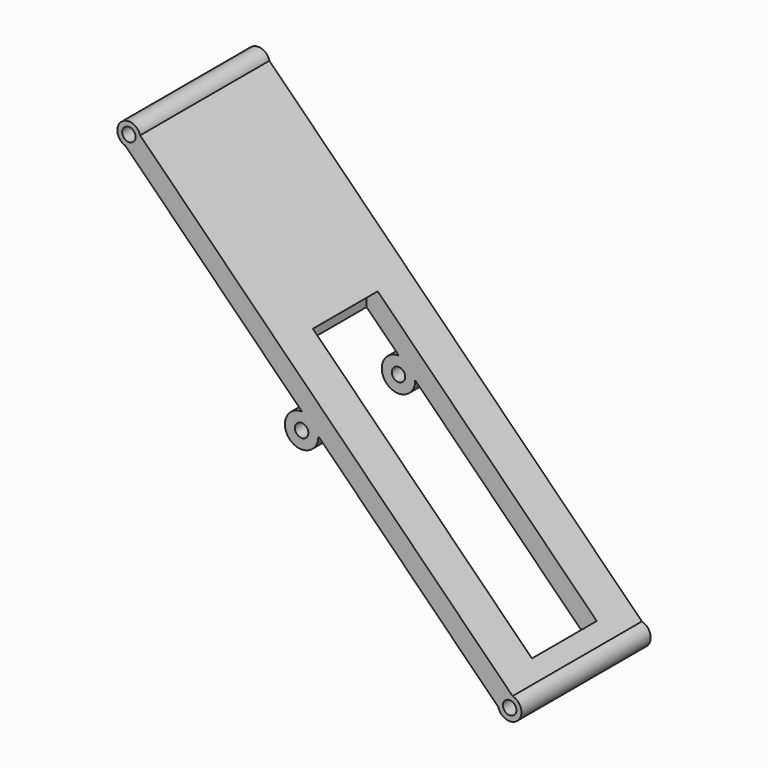
from build123d import *

# Parameters (mm, degrees)
F0_R     = 1.0540994518
F1_DEPTH = 25.3238
F2_W     = 9.8913477779
F2_H     = 12.7
F3_DEPTH = 38.1
F4_W     = 37.0259946046
F4_H     = 12.7
F5_DEPTH = 25.4


with BuildPart() as f1:
    # F0 (on Front) → F1 (new body)
    with BuildSketch(Plane.XZ):
        with BuildLine():
            Line((-29.976574955, 27.7315109247), (-1.7824433728, -0.4626206574))
            ThreePointArc((-1.7824433728, -0.4626206574), (1.3021371376, -1.3021371376), (0.4626206574, 1.7824433728))
            Line((0.4626206574, 1.7824433728), (-57.9090441295, 60.1541081598))
            ThreePointArc((-57.9090441295, 60.1541081598), (-60.9187704252, 61.0135591282), (-60.2099135505, 57.9648495203))
            Line((-60.2099135505, 57.9648495203), (-32.5449282056, 30.2998641753))
            ThreePointArc((-32.5449282056, 30.2998641753), (-34.4523430384, 25.8240960919), (-29.976574955, 27.7315109247))
        make_face()
        with Locations((-32.5981950693, 27.678244061)):
            Circle(F0_R, mode=Mode.SUBTRACT)
        with Locations((0.0063811123, 0.0245859565)):
            Circle(F0_R, mode=Mode.SUBTRACT)
        with Locations((-59.6669015458, 59.6978686146)):
            Circle(F0_R, mode=Mode.SUBTRACT)
    extrude(amount=F1_DEPTH)

    # F2 (on Top) → F3 (cut)
    with BuildSketch(Plane.XY):
        with Locations((-32.6549597085, -12.7)):
            Rectangle(F2_W, F2_H)
    extrude(amount=F3_DEPTH, mode=Mode.SUBTRACT)

    # F4 (on face) → F5 (cut)
    with BuildSketch(Plane(origin=(1.1225320151, 0, 1.1225320151), x_dir=(0.7071067812, 0, -0.7071067812), z_dir=(0.7071067812, 0, 0.7071067812))):
        with Locations((-22.2613505073, -12.7)):
            Rectangle(F4_W, F4_H)
    extrude(amount=-F5_DEPTH, mode=Mode.SUBTRACT)


solid = f1.part
